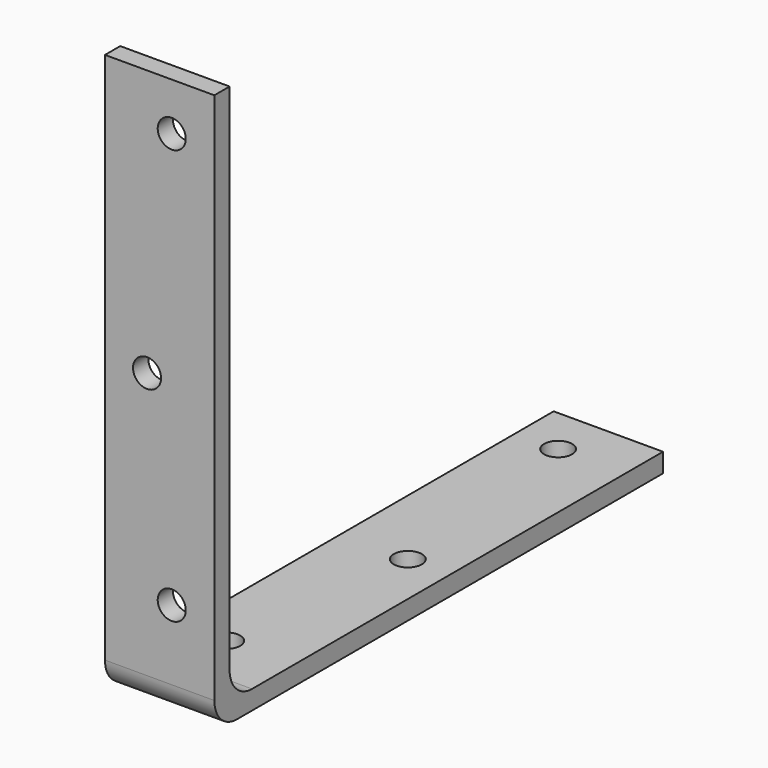
from build123d import *

# Parameters (mm, degrees)
F1_DEPTH = 24.765
F2_R     = 6.35
F3_R     = 3.175
F4_DEPTH = 127.001
F5_R     = 3.175
F6_DEPTH = 127.001


with BuildPart() as f1:
    # F0 (on Right) → F1 (new body)
    with BuildSketch(Plane.YZ):
        Polygon((4.318, 0), (0, 0), (0, -127), (127, -127), (127, -122.682), (4.318, -122.682), align=None)
    extrude(amount=F1_DEPTH)

    # F2
    f2_edges = [f1.edges().sort_by_distance(p)[0] for p in [
        (12.3825, 4.318, -122.682),
        (12.3825, 0, -127),
    ]]
    fillet(f2_edges, radius=F2_R)

    # F3 (on face) → F4 (cut, through all)
    with BuildSketch(Plane.XZ):
        with Locations((15.113, -104.775)):
            Circle(F3_R)
        with Locations((9.525, -60.325)):
            Circle(F3_R)
        with Locations((15.113, -10.795)):
            Circle(F3_R)
    extrude(amount=-F4_DEPTH, mode=Mode.SUBTRACT)

    # F5 (on face) → F6 (cut, through all)
    with BuildSketch(Plane(origin=(0, 0, -127), x_dir=(1, 0, 0), z_dir=(0, 0, -1))):
        with Locations((9.652, -116.205)):
            Circle(F5_R)
        with Locations((15.24, -66.675)):
            Circle(F5_R)
        with Locations((9.652, -22.225)):
            Circle(F5_R)
    extrude(amount=-F6_DEPTH, mode=Mode.SUBTRACT)


solid = f1.part
